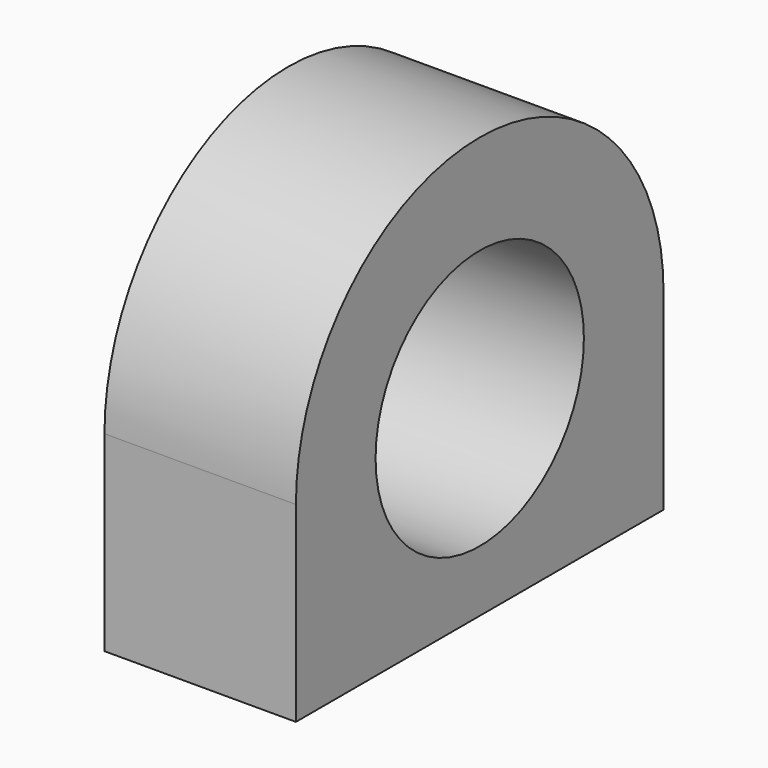
from build123d import *

# Parameters (mm, degrees)
F0_W     = 3.175
F0_H     = 7.62
F1_DEPTH = 3.175
F3_DEPTH = 3.175
F4_R     = 2.159
F5_DEPTH = 25.4


with BuildPart() as f1:
    # F0 (on Top) → F1 (new body)
    with BuildSketch(Plane.XY):
        with Locations((-1.5875, -3.81)):
            Rectangle(F0_W, F0_H)
    extrude(amount=F1_DEPTH)

    # F2 (on face) → F3 (join)
    with BuildSketch(Plane.YZ):
        with BuildLine():
            Line((-7.62, 3.175), (0, 3.175))
            ThreePointArc((0, 3.175), (-3.81, 6.985), (-7.62, 3.175))
        make_face()
    extrude(amount=-F3_DEPTH)

    # F4 (on face) → F5 (cut)
    with BuildSketch(Plane.YZ):
        with Locations((-3.81, 3.175)):
            Circle(F4_R)
    extrude(amount=-F5_DEPTH, mode=Mode.SUBTRACT)


solid = f1.part
